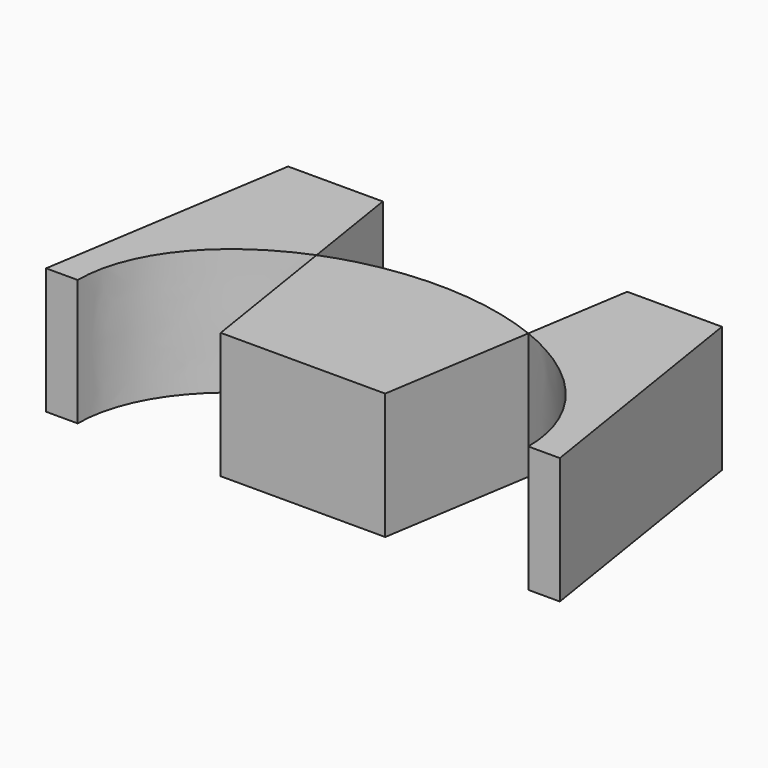
from build123d import *

# Parameters (mm, degrees)
F1_DEPTH = 25.4


with BuildPart() as f1:
    # F0 (on Top) → F1 (new body)
    with BuildSketch(Plane.XY):
        with BuildLine():
            Line((-43.632869, 50.8), (-51.669617, 0))
            Line((-51.669617, 0), (-45.319617, 0))
            add(Edge.make_bspline(
                [(-21.298033, 30.036661), (-45.319617, 20.433774), (-45.319617, 0)],
                knots=[2.060032, 2.060032, 2.060032, 3.141593, 3.141593, 3.141593], degree=2, weights=[1, 0.857307, 1]))
            Line((-21.298033, 30.036661), (-24.582869, 50.8))
            Line((-24.582869, 50.8), (-43.632869, 50.8))
        make_face()
        with BuildLine():
            Line((-21.298033, 30.036661), (-16.546122, 0))
            Line((-16.546122, 0), (16.546122, 0))
            Line((16.546122, 0), (21.298033, 30.036661))
            add(Edge.make_bspline(
                [(21.298033, 30.036661), (0, 38.55078), (-21.298033, 30.036661)],
                knots=[1.08156, 1.08156, 1.08156, 2.060032, 2.060032, 2.060032], degree=2, weights=[1, 0.882692, 1]))
        make_face()
        with BuildLine():
            add(Edge.make_bspline(
                [(45.319617, 0), (45.319617, 20.433774), (21.298033, 30.036661)],
                knots=[0, 0, 0, 1.08156, 1.08156, 1.08156], degree=2, weights=[1, 0.857307, 1]))
            Line((45.319617, 0), (51.669617, 0))
            Line((51.669617, 0), (43.632869, 50.8))
            Line((43.632869, 50.8), (24.582869, 50.8))
            Line((24.582869, 50.8), (21.298033, 30.036661))
        make_face()
    extrude(amount=F1_DEPTH)


solid = f1.part
